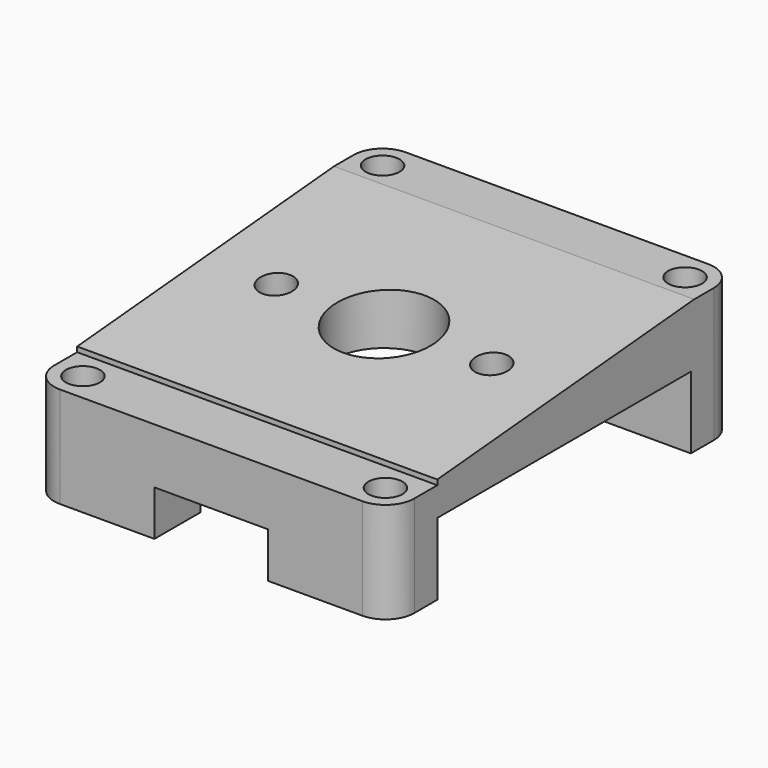
from build123d import *

# Parameters (mm, degrees)
F0_R      = 1.5
F0_R_2    = 4.5
F1_DEPTH  = 2.54
F2_R      = 1.5
F3_DEPTH  = 6.35
F4_W      = 10
F4_H      = 4
F5_DEPTH  = 38.101
F7_DEPTH  = 25.4
F8_W      = 55.4393846542
F8_H      = 54.9912601709
F9_DEPTH  = 25.4
F10_R     = 1.5
F11_DEPTH = 25.4
F13_R     = 2.5
F13_R_2   = 1.5
F14_DEPTH = 25.4
F16_W     = 46.2689362466
F16_H     = 11.2376865
F17_DEPTH = 25.4
F19_W     = 33.8024366647
F19_H     = 5.08
F20_DEPTH = 25.4


with BuildPart() as f1:
    # F0 (on Top) → F1 (new body)
    with BuildSketch(Plane.XY):
        with BuildLine():
            ThreePointArc((15.875, 16.51), (15.1310512242, 18.3060512242), (13.335, 19.05))
            Line((13.335, 19.05), (-13.335, 19.05))
            ThreePointArc((-13.335, 19.05), (-15.1310512242, 18.3060512242), (-15.875, 16.51))
            Line((-15.875, 16.51), (-15.875, -16.51))
            ThreePointArc((-15.875, -16.51), (-15.1310512242, -18.3060512242), (-13.335, -19.05))
            Line((-13.335, -19.05), (13.335, -19.05))
            ThreePointArc((13.335, -19.05), (15.1310512242, -18.3060512242), (15.875, -16.51))
            Line((15.875, -16.51), (15.875, 16.51))
        make_face()
        with Locations((-13.335, -16.51)):
            Circle(F0_R, mode=Mode.SUBTRACT)
        with Locations((13.335, -16.51)):
            Circle(F0_R, mode=Mode.SUBTRACT)
        with Locations((-13.335, 16.51)):
            Circle(F0_R, mode=Mode.SUBTRACT)
        Circle(F0_R_2, mode=Mode.SUBTRACT)
        with Locations((13.335, 16.51)):
            Circle(F0_R, mode=Mode.SUBTRACT)
    extrude(amount=F1_DEPTH)

    # F2 (on face) → F3 (join)
    with BuildSketch(Plane(origin=(0, 0, 0), x_dir=(1, 0, 0), z_dir=(0, 0, -1))):
        with BuildLine():
            Line((-15.875, 16.51), (-15.875, 13.97))
            Line((-15.875, 13.97), (15.875, 13.97))
            Line((15.875, 13.97), (15.875, 16.51))
            ThreePointArc((15.875, 16.51), (15.1310512242, 18.3060512242), (13.335, 19.05))
            Line((13.335, 19.05), (-13.335, 19.05))
            ThreePointArc((-13.335, 19.05), (-15.1310512242, 18.3060512242), (-15.875, 16.51))
        make_face()
        with Locations((-13.335, 16.51)):
            Circle(F2_R, mode=Mode.SUBTRACT)
        with Locations((13.335, 16.51)):
            Circle(F2_R, mode=Mode.SUBTRACT)
        with BuildLine():
            Line((15.875, -13.97), (-15.875, -13.97))
            Line((-15.875, -13.97), (-15.875, -16.51))
            ThreePointArc((-15.875, -16.51), (-15.1310512242, -18.3060512242), (-13.335, -19.05))
            Line((-13.335, -19.05), (13.335, -19.05))
            ThreePointArc((13.335, -19.05), (15.1310512242, -18.3060512242), (15.875, -16.51))
            Line((15.875, -16.51), (15.875, -13.97))
        make_face()
        with Locations((-13.335, -16.51)):
            Circle(F2_R, mode=Mode.SUBTRACT)
        with Locations((13.335, -16.51)):
            Circle(F2_R, mode=Mode.SUBTRACT)
    extrude(amount=F3_DEPTH)

    # F4 (on face) → F5 (cut, through all)
    with BuildSketch(Plane(origin=(0, 19.05, 0), x_dir=(-1, 0, 0), z_dir=(0, 1, 0))):
        with Locations((0, -4.35)):
            Rectangle(F4_W, F4_H)
    extrude(amount=-F5_DEPTH, mode=Mode.SUBTRACT)

    # F7 (add): a face of the model
    f7_faces = [f1.faces().sort_by_distance(p)[0] for p in [
        (14.7803610119, 17.9553610119, 2.54),
    ]]
    extrude(f7_faces, amount=F7_DEPTH)

    # F8 (on face) → F9 (cut)
    with BuildSketch(Plane(origin=(0, -0.3652393382, 4.1747047386), x_dir=(1, 0, 0), z_dir=(0, -0.0871557427, 0.9961946981))):
        with Locations((6.7749572918, -4.9830414355)):
            Rectangle(F8_W, F8_H)
    extrude(amount=F9_DEPTH, mode=Mode.SUBTRACT)

    # F10 (on face) → F11 (cut)
    with BuildSketch(Plane(origin=(0, -0.3652393382, 4.1747047386), x_dir=(1, 0, 0), z_dir=(0, -0.0871557427, 0.9961946981))):
        with Locations((-9.5, 0.3666344931)):
            Circle(F10_R)
        with BuildLine():
            ThreePointArc((11, 0.3666344931), (9.5, 1.8666344931), (8, 0.3666344931))
            ThreePointArc((8, 0.3666344931), (9.5, -1.1333655069), (11, 0.3666344931))
        make_face()
    extrude(amount=-F11_DEPTH, mode=Mode.SUBTRACT)

    # F13 (on offset) → F14 (cut)
    with BuildSketch(Plane(origin=(0, -0.1438637516, 1.6443702054), x_dir=(1, 0, 0), z_dir=(0, -0.0871557427, 0.9961946981))):
        with Locations((-9.5, 0.3666344931)):
            Circle(F13_R)
        with Locations((-9.5, 0.3666344931)):
            Circle(F13_R_2, mode=Mode.SUBTRACT)
        with Locations((9.5, 0.3666344931)):
            Circle(F13_R)
        with Locations((9.5, 0.3666344931)):
            Circle(F13_R_2, mode=Mode.SUBTRACT)
    extrude(amount=-F14_DEPTH, mode=Mode.SUBTRACT)

    # F16 (on offset) → F17 (cut)
    with BuildSketch(Plane(origin=(0, 0, 5.461), x_dir=(1, 0, 0), z_dir=(0, 0, -1))):
        with Locations((-5.8952979743, -18.3988427743)):
            Rectangle(F16_W, F16_H)
    extrude(amount=-F17_DEPTH, mode=Mode.SUBTRACT)

    # F19 (on offset) → F20 (cut)
    with BuildSketch(Plane(origin=(0, 0, 2.54), x_dir=(1, 0, 0), z_dir=(0, 0, -1))):
        with Locations((1.0262183324, 16.51)):
            Rectangle(F19_W, F19_H)
    extrude(amount=-F20_DEPTH, mode=Mode.SUBTRACT)


solid = f1.part
